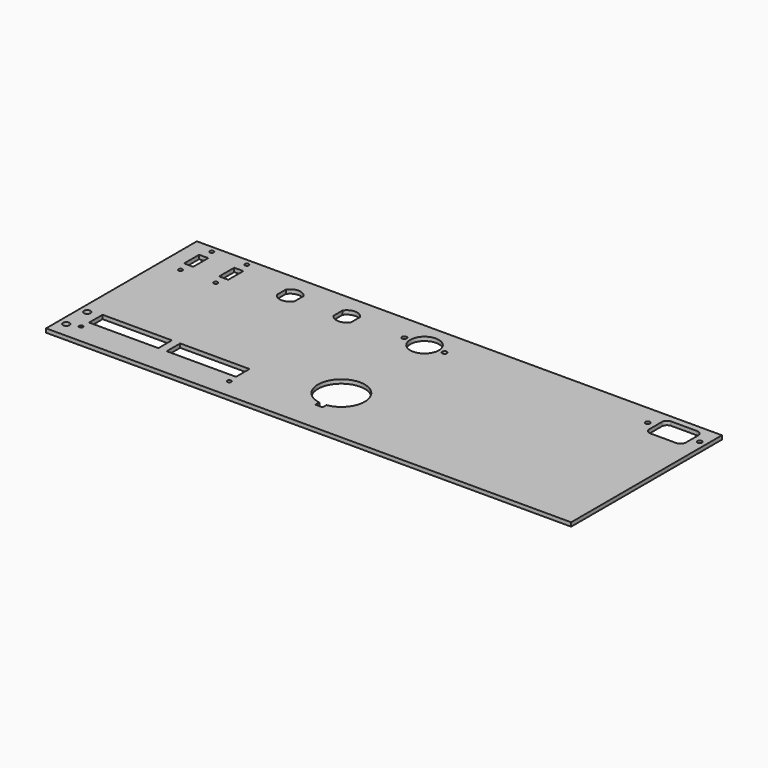
from build123d import *

# Parameters (mm, degrees)
F0_W     = 404
F0_H     = 145
F2_DEPTH = 3
F1_R     = 2.5
F1_R_2   = 11
F1_R_3   = 1.8
F1_R_4   = 1.75
F1_W     = 53.3
F1_H     = 13
F1_W_2   = 7
F1_H_2   = 14.5
F1_R_5   = 1.5
F3_DEPTH = 25


with BuildPart() as f2:
    # F0 (on Top) → F2 (new body)
    with BuildSketch(Plane.XY):
        with Locations((-14.1859020234, -7.6260944492)):
            Rectangle(F0_W, F0_H)
    extrude(amount=-F2_DEPTH)

    # F1 (on Top) → F3 (cut)
    with BuildSketch(Plane.XY):
        with Locations((-210.1859020234, -68.1260944492)):
            Circle(F1_R)
        with BuildLine():
            Line((-135.1859020234, 49.1823275357), (-135.1859020234, 40.5654835659))
            ThreePointArc((-135.1859020234, 40.5654835659), (-128.3859020234, 36.8239055508), (-121.5859020234, 40.5654835659))
            Line((-121.5859020234, 40.5654835659), (-121.5859020234, 49.1823275357))
            ThreePointArc((-121.5859020234, 49.1823275357), (-128.3859020234, 52.9239055508), (-135.1859020234, 49.1823275357))
        make_face()
        with BuildLine():
            ThreePointArc((-22.25, -52.9147846764), (-11.3343496313, -46.8414689631), (-7, -35.1260944492))
            ThreePointArc((-7, -35.1260944492), (-36.7153745139, -21.4604440805), (-27.75, -52.9147846764))
            Line((-27.75, -52.9147846764), (-27.75, -31.4030106551))
            Line((-27.75, -31.4030106551), (-22.25, -31.4030106551))
            Line((-22.25, -31.4030106551), (-22.25, -52.9147846764))
        make_face()
        with BuildLine():
            Line((-27.75, -31.4030106551), (-27.75, -52.9147846764))
            ThreePointArc((-27.75, -52.9147846764), (-25, -53.1260944492), (-22.25, -52.9147846764))
            Line((-22.25, -52.9147846764), (-22.25, -31.4030106551))
            Line((-22.25, -31.4030106551), (-27.75, -31.4030106551))
        make_face()
        with BuildLine():
            ThreePointArc((-22.25, -52.9147846764), (-25, -53.1260944492), (-27.75, -52.9147846764))
            Line((-27.75, -52.9147846764), (-27.75, -56.6260944492))
            Line((-27.75, -56.6260944492), (-22.25, -56.6260944492))
            Line((-22.25, -56.6260944492), (-22.25, -52.9147846764))
        make_face()
        with Locations((-25, 44.8739055508)):
            Circle(F1_R_2)
        with Locations((-40.5, 44.8739055508)):
            Circle(F1_R_3)
        with Locations((-9.5, 44.8739055508)):
            Circle(F1_R_3)
        with Locations((-210.1859020234, -48.1260944492)):
            Circle(F1_R)
        with BuildLine():
            Line((152.8140979766, 39.8739055508), (172.8140979766, 39.8739055508))
            ThreePointArc((172.8140979766, 39.8739055508), (175.6425251014, 41.045478426), (176.8140979766, 43.8739055508))
            Line((176.8140979766, 43.8739055508), (176.8140979766, 55.8739055508))
            ThreePointArc((176.8140979766, 55.8739055508), (175.6425251014, 58.7023326755), (172.8140979766, 59.8739055508))
            Line((172.8140979766, 59.8739055508), (152.8140979766, 59.8739055508))
            ThreePointArc((152.8140979766, 59.8739055508), (149.9856708519, 58.7023326755), (148.8140979766, 55.8739055508))
            Line((148.8140979766, 55.8739055508), (148.8140979766, 43.8739055508))
            ThreePointArc((148.8140979766, 43.8739055508), (149.9856708519, 41.045478426), (152.8140979766, 39.8739055508))
        make_face()
        with Locations((142.8140979766, 49.8739055508)):
            Circle(F1_R_4)
        with Locations((182.8140979766, 49.8739055508)):
            Circle(F1_R_4)
        with Locations((-174.0359020234, -51.6260944492)):
            Rectangle(F1_W, F1_H)
        with Locations((-114.3359020234, -51.6260944492)):
            Rectangle(F1_W, F1_H)
        with Locations((-200.6859020234, 44.8239055508)):
            Rectangle(F1_W_2, F1_H_2)
        with Locations((-200.6859020234, 59.8739055508)):
            Circle(F1_R_5)
        with Locations((-200.6859020234, 29.7739055508)):
            Circle(F1_R_5)
        with Locations((-173.6859020234, 44.8239055508)):
            Rectangle(F1_W_2, F1_H_2)
        with Locations((-173.6859020234, 59.8739055508)):
            Circle(F1_R_5)
        with Locations((-173.6859020234, 29.7739055508)):
            Circle(F1_R_5)
        with BuildLine():
            Line((-91.5859020234, 49.1823275357), (-91.5859020234, 40.5654835659))
            ThreePointArc((-91.5859020234, 40.5654835659), (-84.7859020234, 36.8239055508), (-77.9859020234, 40.5654835659))
            Line((-77.9859020234, 40.5654835659), (-77.9859020234, 49.1823275357))
            ThreePointArc((-77.9859020234, 49.1823275357), (-84.7859020234, 52.9239055508), (-91.5859020234, 49.1823275357))
        make_face()
        with Locations((-201.1859020234, -65.1260944492)):
            Circle(F1_R_5)
        with Locations((-87.1859020234, -65.1260944492)):
            Circle(F1_R_5)
    extrude(amount=-F3_DEPTH, mode=Mode.SUBTRACT)


solid = f2.part
